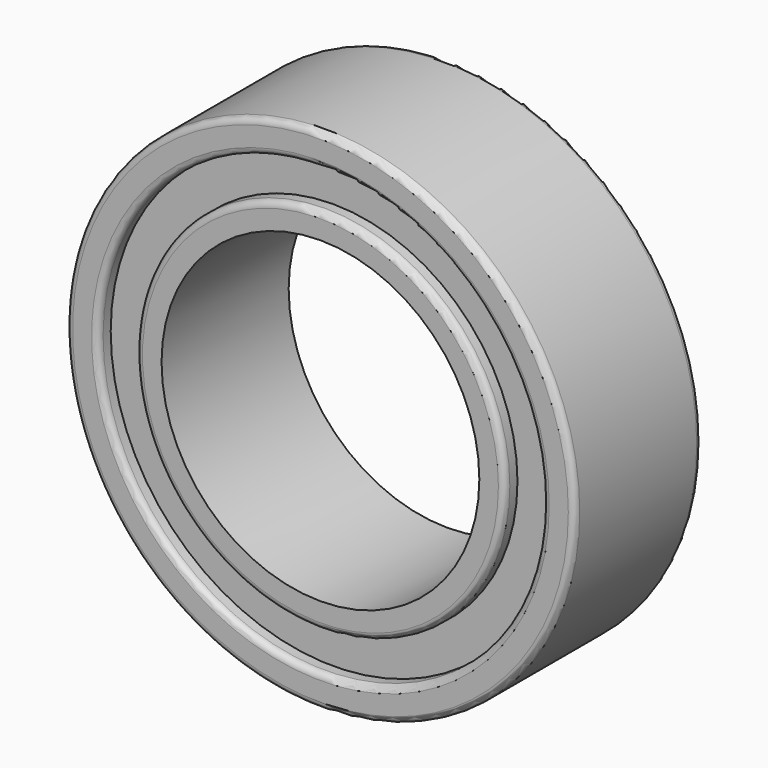
from build123d import *

# Parameters (mm, degrees)
F0_R     = 2.9
F0_R_2   = 2.5
F1_DEPTH = 1.25
F0_R_3   = 4
F0_R_4   = 3.5
F2_DEPTH = 1
F3_R     = 0.1
F3_2_R   = 0.1


with BuildPart() as f1:
    # F0 (on Front) → F1 (new body, symmetric)
    with BuildSketch(Plane.XZ):
        Circle(F0_R)
        Circle(F0_R_2, mode=Mode.SUBTRACT)
    extrude(amount=F1_DEPTH, both=True)

    # F3
    f3_edges = [f1.edges().sort_by_distance(p)[0] for p in [
        (-2.9, 1.25, 0),
        (-2.9, -1.25, 0),
    ]]
    fillet(f3_edges, radius=F3_R)


with BuildPart() as f1b:
    # F0 (on Front) → F1, piece 2 (new body, symmetric)
    with BuildSketch(Plane.XZ):
        Circle(F0_R_3)
        Circle(F0_R_4, mode=Mode.SUBTRACT)
    extrude(amount=F1_DEPTH, both=True)

    # F3#2
    f3_2_edges = [f1b.edges().sort_by_distance(p)[0] for p in [
        (-4, 1.25, 0),
        (-3.5, 1.25, 0),
        (-4, -1.25, 0),
        (-3.5, -1.25, 0),
    ]]
    fillet(f3_2_edges, radius=F3_2_R)


with BuildPart() as f2:
    # F0 (on Front) → F2 (new body, symmetric)
    with BuildSketch(Plane.XZ):
        Circle(F0_R_4)
        Circle(F0_R, mode=Mode.SUBTRACT)
    extrude(amount=F2_DEPTH, both=True)


solid = Compound([f1.part, f1b.part, f2.part])
